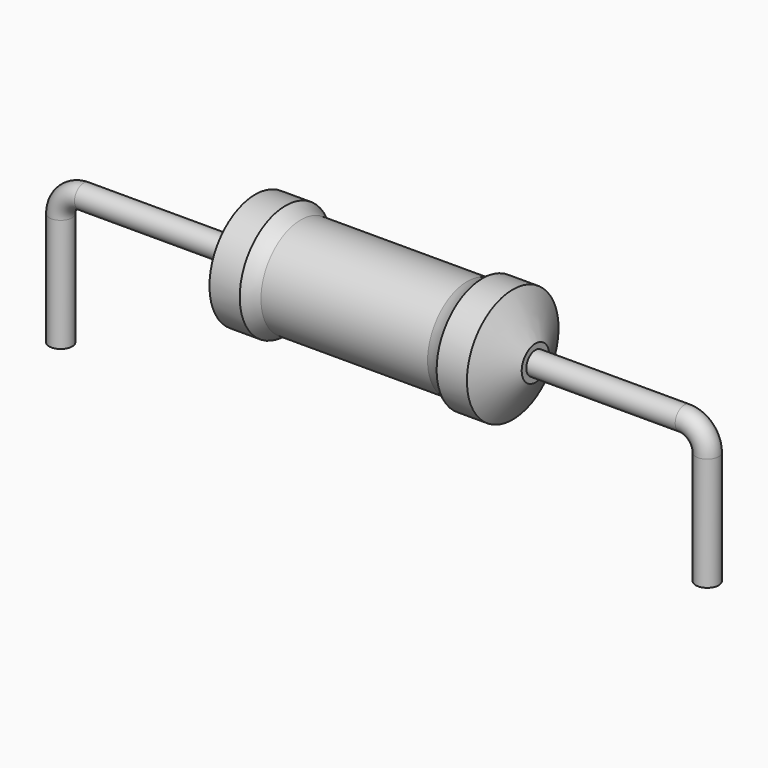
from build123d import *

# Parameters (mm, degrees)
SKETCH_R = 0.45


with BuildPart() as revolution:
    # Sketch002 → Revolution (revolve)
    with BuildSketch(Plane.XZ):
        with BuildLine():
            Line((7.6425, 4.6), (8.8325, 4.6))
            ThreePointArc((8.8325, 4.6), (9.117689, 4.426628), (9.4275, 4.3025))
            Line((9.4275, 4.3025), (15.9725, 4.3025))
            ThreePointArc((15.9725, 4.3025), (16.282311, 4.426628), (16.5675, 4.6))
            Line((16.5675, 4.6), (17.7575, 4.6))
            ThreePointArc((18.65, 3.025), (18.205783, 3.813652), (17.7575, 4.6))
            Line((18.65, 2.35), (18.65, 3.025))
            Line((6.75, 2.35), (18.65, 2.35))
            Line((6.75, 2.35), (6.75, 3.025))
            ThreePointArc((7.6425, 4.6), (7.194217, 3.813652), (6.75, 3.025))
        make_face()
    revolve(axis=Axis((6.75, 0, 2.35), (1, 0, 0)))


with BuildPart() as sweep_body:
    # Sweep: sweep along a path in Sketch001
    with BuildLine(Plane.XZ) as sweep_path:
        Line((0, -3), (0, 1.45))
        ThreePointArc((0, 1.45), (0.263601, 2.086393), (0.899992, 2.35))
        Line((0.899992, 2.35), (24.5, 2.35))
        ThreePointArc((24.5, 2.35), (25.136396, 2.086396), (25.4, 1.45))
        Line((25.4, 1.45), (25.4, -3))
    # Sketch → Sweep (sweep)
    with BuildSketch(Plane.XY.offset(-2)):
        Circle(SKETCH_R)
    sweep(path=sweep_path.line)


solid = Compound([revolution.part, sweep_body.part])
